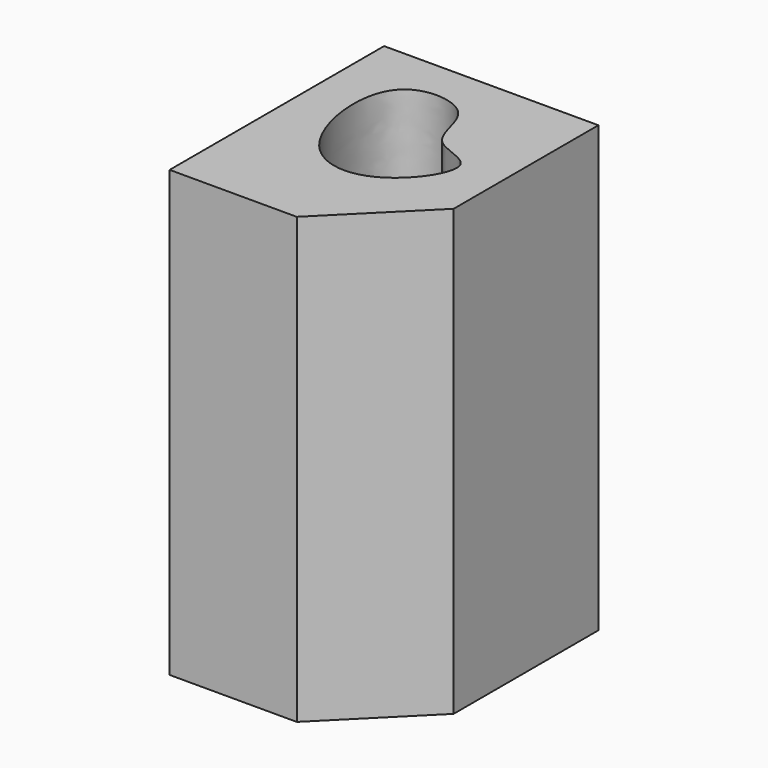
from build123d import *

# Parameters (mm, degrees)
F0_W     = 49.1812452674
F0_H     = 61.5196600556
F1_DEPTH = 102.0506862551
F2_SIZE  = 20
F4_DEPTH = 32.2221927345


with BuildPart() as f1:
    # F0 (on Top) → F1 (new body)
    with BuildSketch(Plane.XY):
        with Locations((24.5906226337, 30.7598300278)):
            Rectangle(F0_W, F0_H)
    extrude(amount=F1_DEPTH)

    # F2
    f2_edges = [f1.edges().sort_by_distance(p)[0] for p in [
        (49.181245, 0, 51.025343),
    ]]
    chamfer(f2_edges, length=F2_SIZE)

    # F3 (on face) → F4 (cut)
    with BuildSketch(Plane.XY.offset(102.0506862551)):
        with BuildLine():
            add(Edge.make_bspline(
                [(14.9697884917, 24.1816043854), (9.6009433452, 30.797334319), (6.214481847, 54.512284672), (29.7064583043, 52.5828474483), (28.205306037, 37.0892116051), (44.3171907964, 36.2556686485), (31.9890515151, 17.3984020192), (19.272394379, 18.8797419207), (14.9697884917, 24.1816043854)],
                knots=[0, 0, 0, 0, 0.2177502656, 0.3771252695, 0.5248314049, 0.6583289156, 0.8254943942, 1, 1, 1, 1], degree=3))
        make_face()
    extrude(amount=-F4_DEPTH, mode=Mode.SUBTRACT)


solid = f1.part
